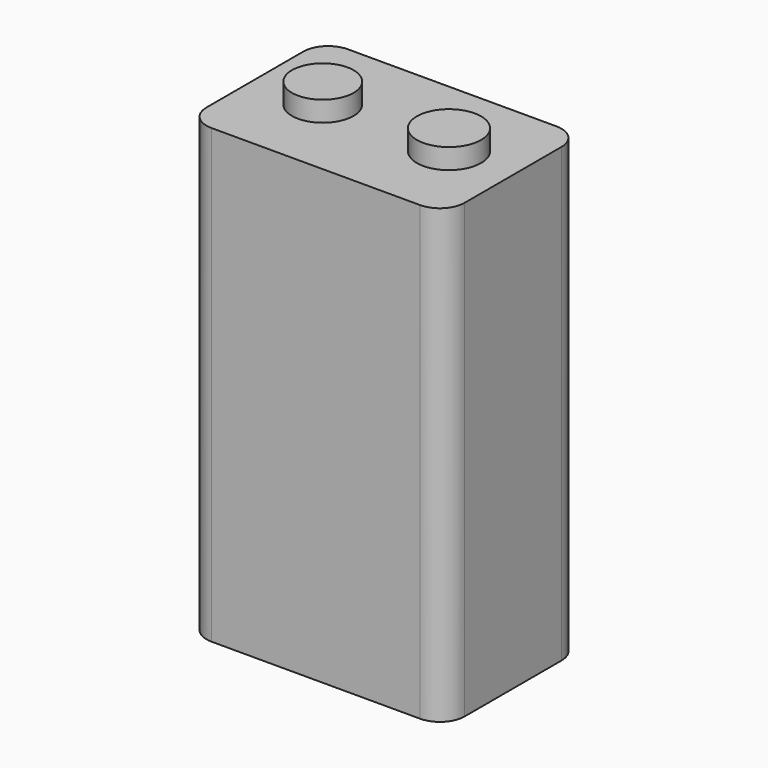
from build123d import *

# Parameters (mm, degrees)
F0_W     = 26.4922
F0_H     = 17.5006
F1_DEPTH = 46.4058
F2_R     = 3.159655
F2_R_2   = 3.294016
F3_DEPTH = 2.0828
F4_R     = 2.54


with BuildPart() as f1:
    # F0 (on Top) → F1 (new body)
    with BuildSketch(Plane.XY):
        Rectangle(F0_W, F0_H)
    extrude(amount=F1_DEPTH)

    # F2 (on face) → F3 (join)
    with BuildSketch(Plane.XY.offset(46.4058)):
        with Locations((-6.283553, 0)):
            Circle(F2_R)
        with Locations((6.670447, 0)):
            Circle(F2_R_2)
    extrude(amount=F3_DEPTH)

    # F4
    f4_edges = [f1.edges().sort_by_distance(p)[0] for p in [
        (-13.2461, -8.7503, 23.2029),
        (13.2461, -8.7503, 23.2029),
        (13.2461, 8.7503, 23.2029),
        (-13.2461, 8.7503, 23.2029),
    ]]
    fillet(f4_edges, radius=F4_R)


solid = f1.part
